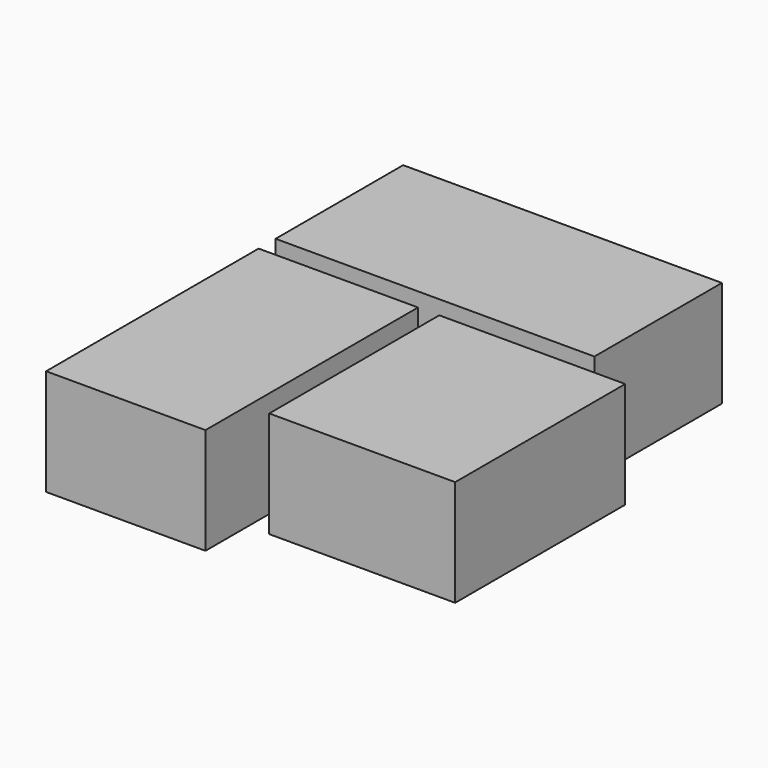
from build123d import *

# Parameters (mm, degrees)
F0_W     = 38.1
F0_H     = 19.05
F0_W_2   = 22.225
F0_H_2   = 25.4
F0_W_3   = 19.05
F0_H_3   = 31.75
F1_DEPTH = 12.7


with BuildPart() as f1:
    # F0 (on Top) → F1 (new body)
    with BuildSketch(Plane.XY):
        with Locations((19.05, 9.525)):
            Rectangle(F0_W, F0_H)
        with Locations((32.7025, -15.24)):
            Rectangle(F0_W_2, F0_H_2)
        with Locations((9.525, -18.415)):
            Rectangle(F0_W_3, F0_H_3)
    extrude(amount=F1_DEPTH)


solid = f1.part
